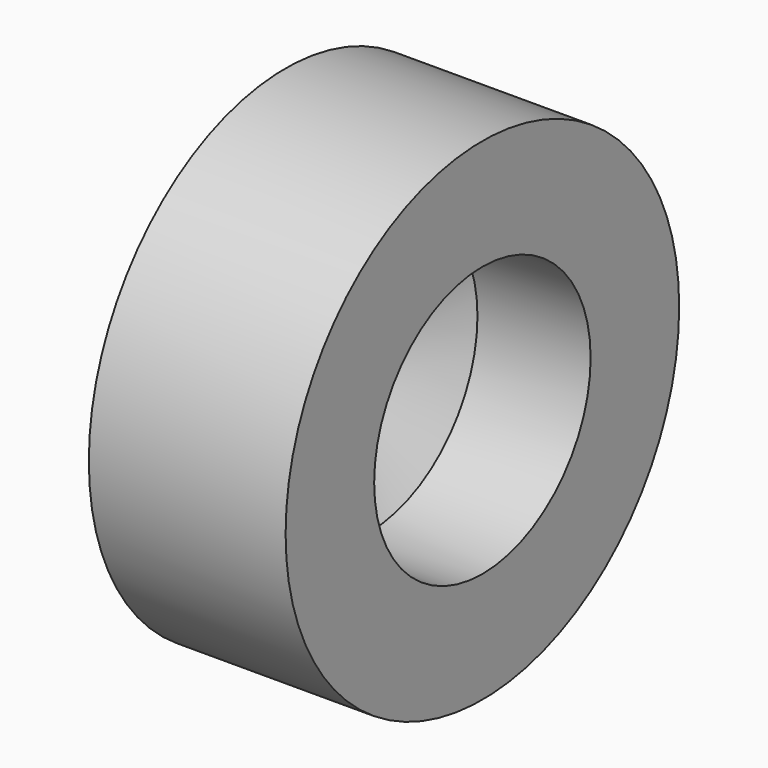
from build123d import *

# Parameters (mm, degrees)
F0_R     = 5
F1_DEPTH = 4
F2_D     = 5.5
F2_DEPTH = 2.3
F2_TIP   = 1.6523667023


with BuildPart() as f1:
    # F0 (on Right) → F1 (new body)
    with BuildSketch(Plane.YZ):
        Circle(F0_R)
    extrude(amount=-F1_DEPTH)

    # F2
    with Locations(Plane.YZ):
        with Locations((0, 0)):
            Hole(F2_D / 2, depth=F2_DEPTH)
            with Locations((0, 0, -(F2_DEPTH + F2_TIP / 2))):  # 118° drill point
                Cone(0, F2_D / 2, F2_TIP, mode=Mode.SUBTRACT)


solid = f1.part
